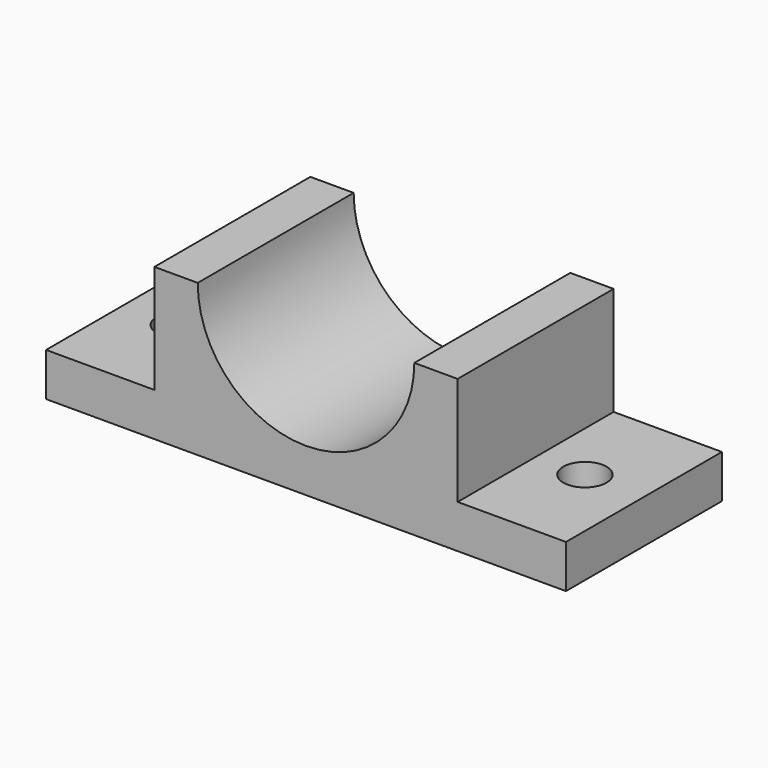
from build123d import *

# Parameters (mm, degrees)
F0_W     = 60
F0_H     = 22.5
F1_DEPTH = 5
F3_DEPTH = 12.5
F5_DEPTH = 22.501
F6_R     = 2.5
F7_DEPTH = 5.001


with BuildPart() as f1:
    # F0 (on Top) → F1 (new body)
    with BuildSketch(Plane.XY):
        with Locations((25.3277134895, -21.8179938197)):
            Rectangle(F0_W, F0_H)
    extrude(amount=F1_DEPTH)

    # F2 (on face) → F3 (join)
    with BuildSketch(Plane.XY.offset(5)):
        Polygon((42.8277134895, -33.0679938197), (42.8277134895, -18.2918962091), (42.8277134895, -10.5679938197), (7.8277134895, -10.5679938197), (7.8277134895, -21.8179938197), (7.8277134895, -33.0679938197), align=None)
    extrude(amount=F3_DEPTH)

    # F4 (on face) → F5 (cut, through all)
    with BuildSketch(Plane.XZ.offset(33.0679938197)):
        with BuildLine():
            ThreePointArc((12.8277134895, 17.5), (25.3277134895, 5), (37.8277134895, 17.5))
            Line((37.8277134895, 17.5), (12.8277134895, 17.5))
        make_face()
    extrude(amount=-F5_DEPTH, mode=Mode.SUBTRACT)

    # F6 (on face) → F7 (cut, through all)
    with BuildSketch(Plane.XY.offset(5)):
        with Locations((1.5889033675, -21.8179938197)):
            Circle(F6_R)
        with Locations((48.4615452588, -21.748110652)):
            Circle(F6_R)
    extrude(amount=-F7_DEPTH, mode=Mode.SUBTRACT)


solid = f1.part
